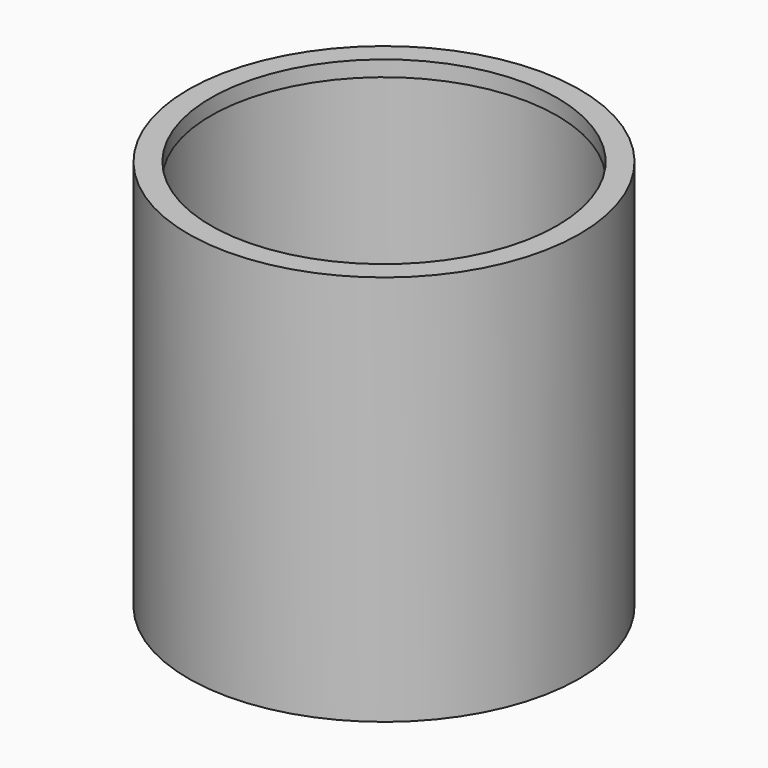
from build123d import *

# Parameters (mm, degrees)
F0_R     = 25
F1_DEPTH = 50
F2_T     = -2
F3_R     = 22.120492
F4_DEPTH = 25


with BuildPart() as f1:
    # F0 (on Top) → F1 (new body)
    with BuildSketch(Plane.XY):
        Circle(F0_R)
    extrude(amount=F1_DEPTH)

    # F2
    f2_openings = [f1.faces().sort_by_distance(p)[0] for p in [
        (0, 0, 0),
    ]]
    offset(amount=F2_T, openings=f2_openings)

    # F3 (on face) → F4 (cut)
    with BuildSketch(Plane(origin=(0, 0, 48), x_dir=(1, 0, 0), z_dir=(0, 0, -1))):
        Circle(F3_R)
    extrude(amount=-F4_DEPTH, mode=Mode.SUBTRACT)


solid = f1.part
